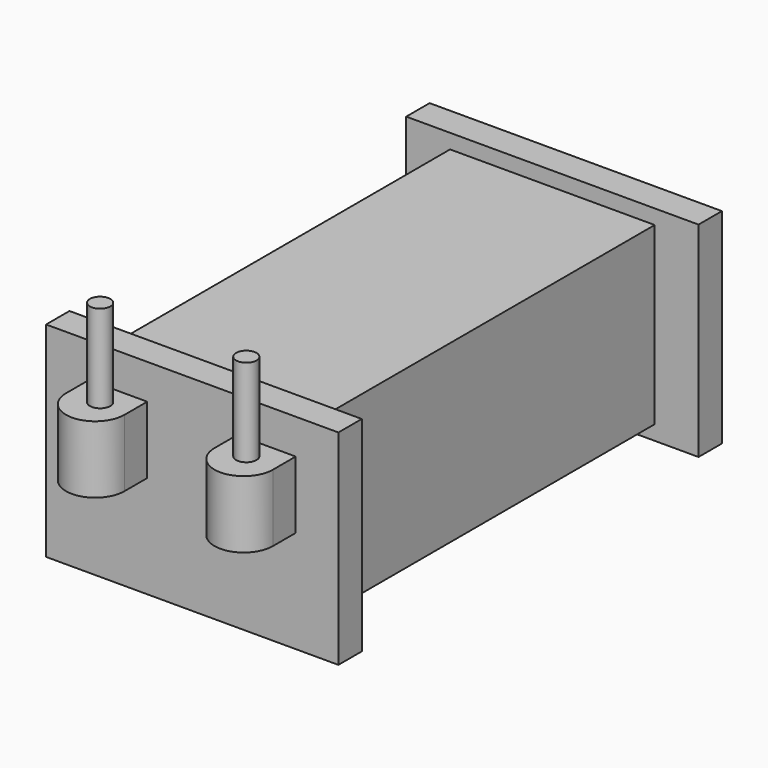
from build123d import *

# Parameters (mm, degrees)
SKETCH001_W  = 7
SKETCH001_H  = 14.4
PAD001_DEPTH = 3
SKETCH002_W  = 10
SKETCH002_H  = 7
PAD002_DEPTH = 1
SKETCH003_W  = 10
SKETCH003_H  = 7
PAD003_DEPTH = 1
PAD013_DEPTH = 2.3
SKETCH020_R  = 0.35
PAD014_DEPTH = 3


with BuildPart() as part:
    # Sketch001 → Pad001 (new body, symmetric)
    with BuildSketch(Plane.XY):
        with Locations((0, -0.37169)):
            Rectangle(SKETCH001_W, SKETCH001_H)
    extrude(amount=PAD001_DEPTH, both=True)

    # Sketch002 (on Face3 of Pad001) → Pad002 (join)
    with BuildSketch(Plane.XZ.offset(7.57169)):
        Rectangle(SKETCH002_W, SKETCH002_H)
    extrude(amount=PAD002_DEPTH)

    # Sketch003 (on Face11 of Pad002) → Pad003 (join)
    with BuildSketch(Plane(origin=(0, 6.82831, 0), x_dir=(-1, 0, 0), z_dir=(0, 1, 0))):
        Rectangle(SKETCH003_W, SKETCH003_H)
    extrude(amount=PAD003_DEPTH)

    # Sketch019 → Pad013 (join)
    with BuildSketch(Plane.XY):
        with BuildLine():
            ThreePointArc((-3.539731, -9.545275), (-2.539731, -10.545275), (-1.539731, -9.545275))
            Line((-1.539731, -8.57169), (-1.539731, -9.545275))
            Line((-3.539731, -8.57169), (-1.539731, -8.57169))
            Line((-3.539731, -8.57169), (-3.539731, -9.545275))
        make_face()
        with BuildLine():
            ThreePointArc((1.539731, -9.545275), (2.539731, -10.545275), (3.539731, -9.545275))
            Line((3.539731, -8.57169), (3.539731, -9.545275))
            Line((3.539731, -8.57169), (1.539731, -8.57169))
            Line((1.539731, -8.57169), (1.539731, -9.545275))
        make_face()
    extrude(amount=PAD013_DEPTH)

    # Sketch020 (on Face19 of Pad013) → Pad014 (join)
    with BuildSketch(Plane.XY.offset(2.3)):
        with Locations((-2.5, -9.384607)):
            Circle(SKETCH020_R)
        with Locations((2.5, -9.384607)):
            Circle(SKETCH020_R)
    extrude(amount=PAD014_DEPTH)


with BuildPart() as part_1:
    # Body001 placement: moved
    add(part.part.moved(Location((3.5, -13, 0))))


solid = part_1.part
